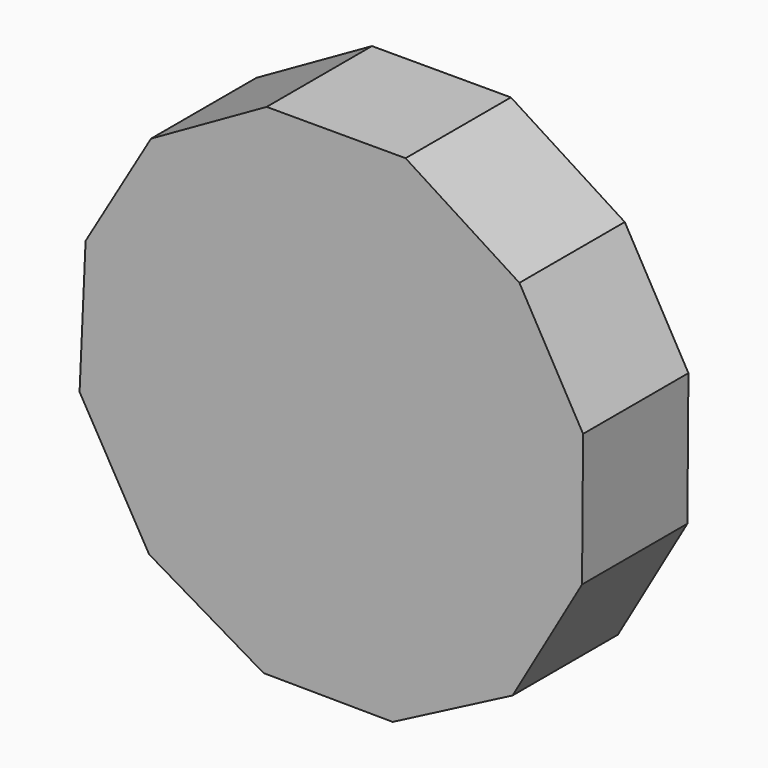
from build123d import *

# Parameters (mm, degrees)
F1_DEPTH = 21.082


with BuildPart() as f1:
    # F0 (on Front) → F1 (new body)
    with BuildSketch(Plane.XZ):
        Polygon((-10.555825525, 40.0244387606), (-29.0683396453, 29.5296896823), (-39.5416810071, 11.7147250284), (-40.5054619393, -9.8913594583), (-29.3842679764, -29.1538324429), (-11.0392916081, -39.9387654198), (9.6255910306, -40.1014627747), (28.8188995385, -30.1330793023), (39.9400935015, -10.8706063177), (40.1076312534, 10.4090757375), (29.9160899765, 28.3867377463), (11.6865624008, 40.0244387606), align=None)
        Polygon((16.8791972101, -29.6196397394), (-34.0909590703, 0.1920062903), (17.2117618602, 29.4276334491), align=None, mode=Mode.SUBTRACT)
        Polygon((17.2117618602, 29.4276334491), (-34.0909590703, 0.1920062903), (16.8791972101, -29.6196397394), align=None)
    extrude(amount=F1_DEPTH)


solid = f1.part
